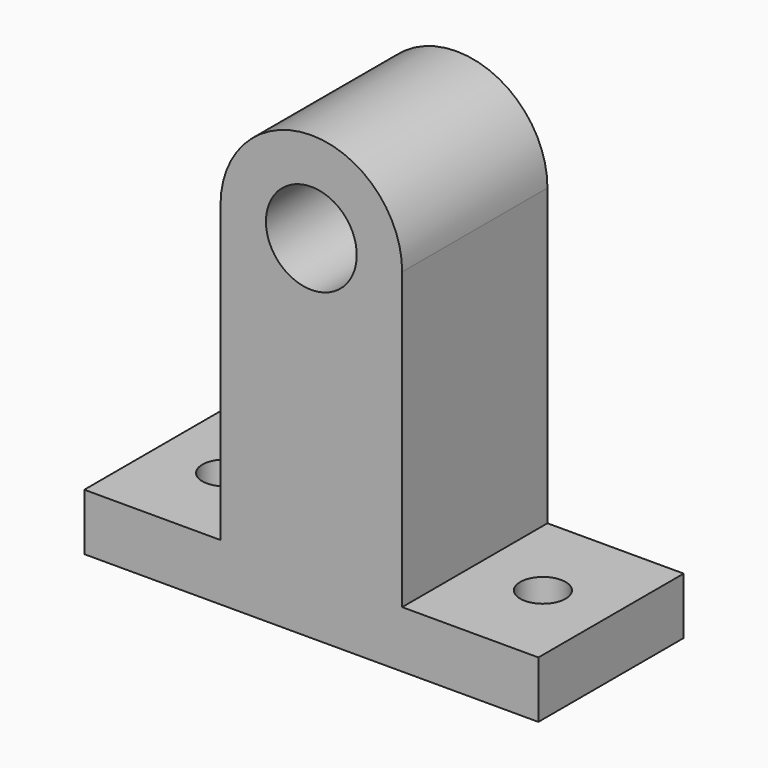
from build123d import *

# Parameters (mm, degrees)
F1_DEPTH = 16
F2_D     = 8
F4_D     = 4


with BuildPart() as f1:
    # F0 (on Front) → F1 (new body)
    with BuildSketch(Plane.XZ):
        with BuildLine():
            Line((-8, 2.5), (-20, 2.5))
            Line((-20, 2.5), (-20, -2.5))
            Line((-20, -2.5), (20, -2.5))
            Line((20, -2.5), (20, 2.5))
            Line((20, 2.5), (8, 2.5))
            Line((8, 2.5), (8, 28.5))
            ThreePointArc((8, 28.5), (0, 36.5), (-8, 28.5))
            Line((-8, 28.5), (-8, 2.5))
        make_face()
    extrude(amount=F1_DEPTH)

    # F2 (through all)
    with Locations(Plane(origin=(0, 0, 0), x_dir=(1, 0, 0), z_dir=(0, 1, 0))):
        with Locations((0, -28.5)):
            Hole(F2_D / 2)

    # F4 (through all)
    with Locations(Plane(origin=(0, 0, -2.5), x_dir=(1, 0, 0), z_dir=(0, 0, -1))):
        with Locations((-14, 8), (14, 8)):
            Hole(F4_D / 2)


solid = f1.part
